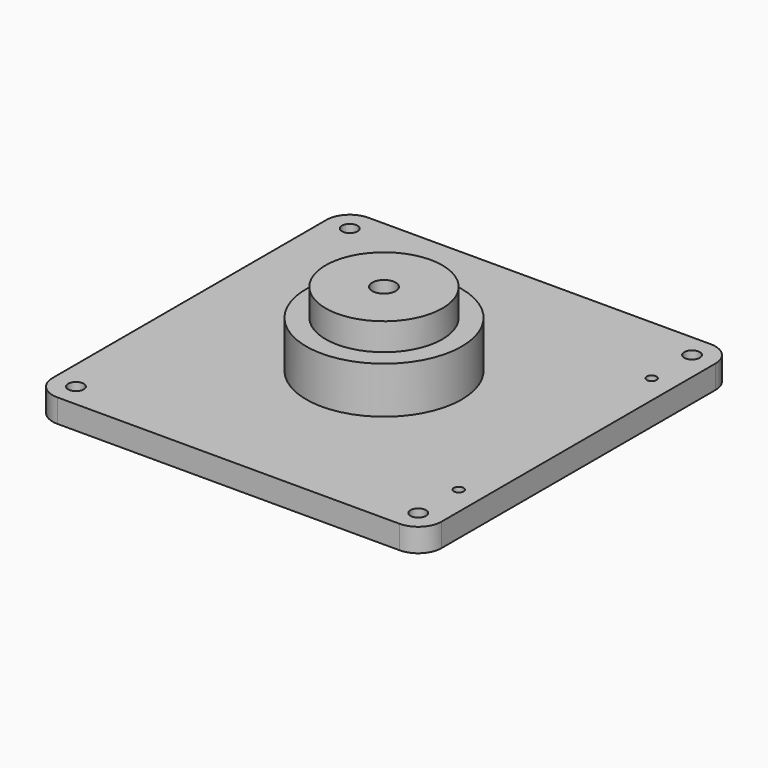
from build123d import *

# Parameters (mm, degrees)
F0_R      = 2
F0_R_2    = 1.25
F0_R_3    = 10
F1_DEPTH  = 6
F2_R      = 20
F3_DEPTH  = 12
F4_R      = 15
F5_DEPTH  = 7
F6_R      = 3
F7_DEPTH  = 25.001
F8_W      = 80.265614789
F8_H      = 44.3978846073
F9_DEPTH  = 25
F10_W     = 59.8325859755
F10_H     = 22.7476343513
F11_DEPTH = 6


with BuildPart() as f1:
    # F0 (on Top) → F1 (new body)
    with BuildSketch(Plane.XY):
        with BuildLine():
            ThreePointArc((0, 6), (1.7573593129, 1.7573593129), (6, 0))
            Line((6, 0), (94, 0))
            ThreePointArc((94, 0), (98.2426406871, 1.7573593129), (100, 6))
            Line((100, 6), (100, 94))
            ThreePointArc((100, 94), (98.2426406871, 98.2426406871), (94, 100))
            Line((94, 100), (75, 100))
            Line((75, 100), (75, 136))
            Line((75, 136), (25, 136))
            Line((25, 136), (25, 100))
            Line((25, 100), (6, 100))
            ThreePointArc((6, 100), (1.7573593129, 98.2426406871), (0, 94))
            Line((0, 94), (0, 6))
        make_face()
        with Locations((6, 6)):
            Circle(F0_R, mode=Mode.SUBTRACT)
        with Locations((94, 6)):
            Circle(F0_R, mode=Mode.SUBTRACT)
        with Locations((94, 19)):
            Circle(F0_R_2, mode=Mode.SUBTRACT)
        with Locations((6, 94)):
            Circle(F0_R, mode=Mode.SUBTRACT)
        with BuildLine():
            Line((33, 81), (33, 87))
            ThreePointArc((33, 87), (34.5, 88.5), (36, 87))
            Line((36, 87), (36, 81))
            ThreePointArc((36, 81), (34.5, 79.5), (33, 81))
        make_face(mode=Mode.SUBTRACT)
        with BuildLine():
            ThreePointArc((36, 112), (34.5, 110.5), (33, 112))
            Line((33, 112), (33, 118))
            ThreePointArc((33, 118), (34.5, 119.5), (36, 118))
            Line((36, 118), (36, 112))
        make_face(mode=Mode.SUBTRACT)
        with BuildLine():
            Line((64, 81), (64, 87))
            ThreePointArc((64, 87), (65.5, 88.5), (67, 87))
            Line((67, 87), (67, 81))
            ThreePointArc((67, 81), (65.5, 79.5), (64, 81))
        make_face(mode=Mode.SUBTRACT)
        with Locations((50, 99.5)):
            Circle(F0_R_3, mode=Mode.SUBTRACT)
        with Locations((94, 81)):
            Circle(F0_R_2, mode=Mode.SUBTRACT)
        with Locations((94, 94)):
            Circle(F0_R, mode=Mode.SUBTRACT)
        with BuildLine():
            ThreePointArc((67, 112), (65.5, 110.5), (64, 112))
            Line((64, 112), (64, 118))
            ThreePointArc((64, 118), (65.5, 119.5), (67, 118))
            Line((67, 118), (67, 112))
        make_face(mode=Mode.SUBTRACT)
    extrude(amount=F1_DEPTH)

    # F2 (on face) → F3 (join)
    with BuildSketch(Plane.XY.offset(6)):
        with Locations((50, 50)):
            Circle(F2_R)
    extrude(amount=F3_DEPTH)

    # F4 (on face) → F5 (join)
    with BuildSketch(Plane.XY.offset(18)):
        with Locations((50, 50)):
            Circle(F4_R)
    extrude(amount=F5_DEPTH)

    # F6 (on face) → F7 (cut, through all)
    with BuildSketch(Plane.XY.offset(25)):
        with Locations((50, 50)):
            Circle(F6_R)
    extrude(amount=-F7_DEPTH, mode=Mode.SUBTRACT)

    # F8 (on face) → F9 (cut)
    with BuildSketch(Plane.XY.offset(6)):
        with Locations((44.3671926055, 122.1989423037)):
            Rectangle(F8_W, F8_H)
    extrude(amount=-F9_DEPTH, mode=Mode.SUBTRACT)

    # F10 (on face) → F11 (join)
    with BuildSketch(Plane.XY.offset(6)):
        with Locations((48.6290911213, 88.6261828244)):
            Rectangle(F10_W, F10_H)
    extrude(amount=-F11_DEPTH)


solid = f1.part
